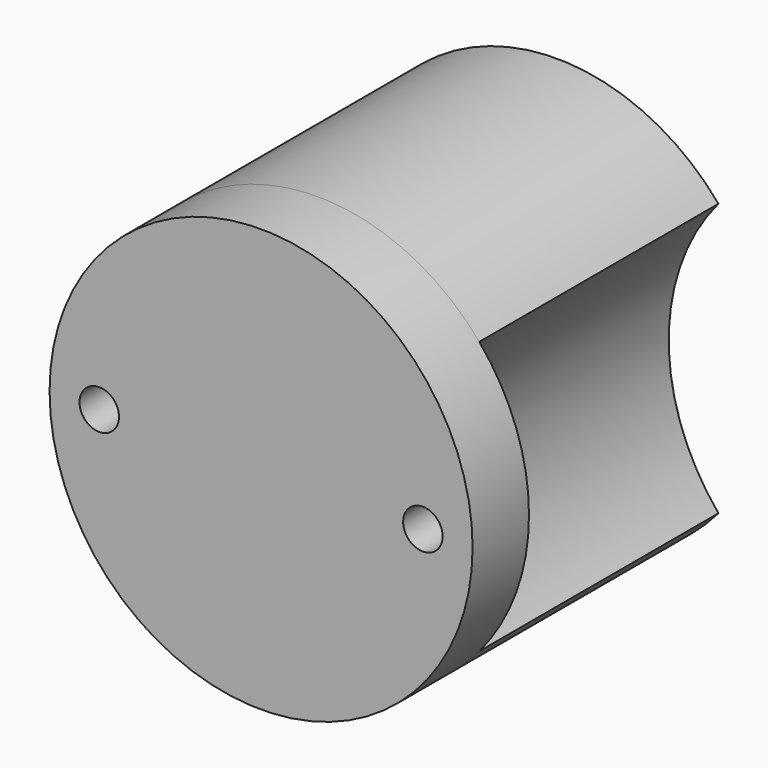
from build123d import *

# Parameters (mm, degrees)
SKETCH073_R     = 15
PAD017_DEPTH    = 5
SKETCH074_R     = 1.4
POCKET046_DEPTH = 5.001
PAD018_DEPTH    = 21.2
SKETCH_R        = 4
POCKET_DEPTH    = 4
SKETCH076_R     = 1.4
POCKET048_DEPTH = 8


with BuildPart() as part:
    # Sketch073 → Pad017 (new body)
    with BuildSketch(Plane.XZ):
        Circle(SKETCH073_R)
    extrude(amount=PAD017_DEPTH)

    # Sketch074 (on Face2 of Pad017) → Pocket046 (cut, through all)
    with BuildSketch(Plane(origin=(0, 0, 0), x_dir=(1, 0, 0), z_dir=(0, 1, 0))):
        with Locations((-11.475, 0)):
            Circle(SKETCH074_R)
        with Locations((11.475, 0)):
            Circle(SKETCH074_R)
    extrude(amount=-POCKET046_DEPTH, mode=Mode.SUBTRACT)

    # Sketch075 (on Face2 of Pocket046) → Pad018 (join)
    with BuildSketch(Plane(origin=(0, 0, 0), x_dir=(1, 0, 0), z_dir=(0, 1, 0))):
        with BuildLine():
            ThreePointArc((11.475, 9.660454), (0, 15), (-11.475, 9.660454))
            ThreePointArc((-11.475, -9.660454), (-7.95, 0), (-11.475, 9.660454))
            ThreePointArc((-11.475, -9.660454), (0, -15), (11.475, -9.660454))
            ThreePointArc((11.475, 9.660454), (7.95, 0), (11.475, -9.660454))
        make_face()
    extrude(amount=PAD018_DEPTH)

    # Sketch (on Face10 of Pad018) → Pocket (cut)
    with BuildSketch(Plane(origin=(0, 21.2, 0), x_dir=(1, 0, 0), z_dir=(0, 1, 0))):
        Circle(SKETCH_R)
    extrude(amount=-POCKET_DEPTH, mode=Mode.SUBTRACT)

    # Sketch076 (on Face10 of Pocket) → Pocket048 (cut)
    with BuildSketch(Plane(origin=(0, 21.2, 0), x_dir=(1, 0, 0), z_dir=(0, 1, 0))):
        with Locations((-7.95, 9.660454)):
            Circle(SKETCH076_R)
        with Locations((7.95, 9.660454)):
            Circle(SKETCH076_R)
        with Locations((-7.95, -9.660454)):
            Circle(SKETCH076_R)
        with Locations((7.95, -9.660454)):
            Circle(SKETCH076_R)
    extrude(amount=-POCKET048_DEPTH, mode=Mode.SUBTRACT)


with BuildPart() as part_1:
    # Body001 placement: moved
    add(part.part.moved(Location((60, -8.4, 60))))


solid = part_1.part
